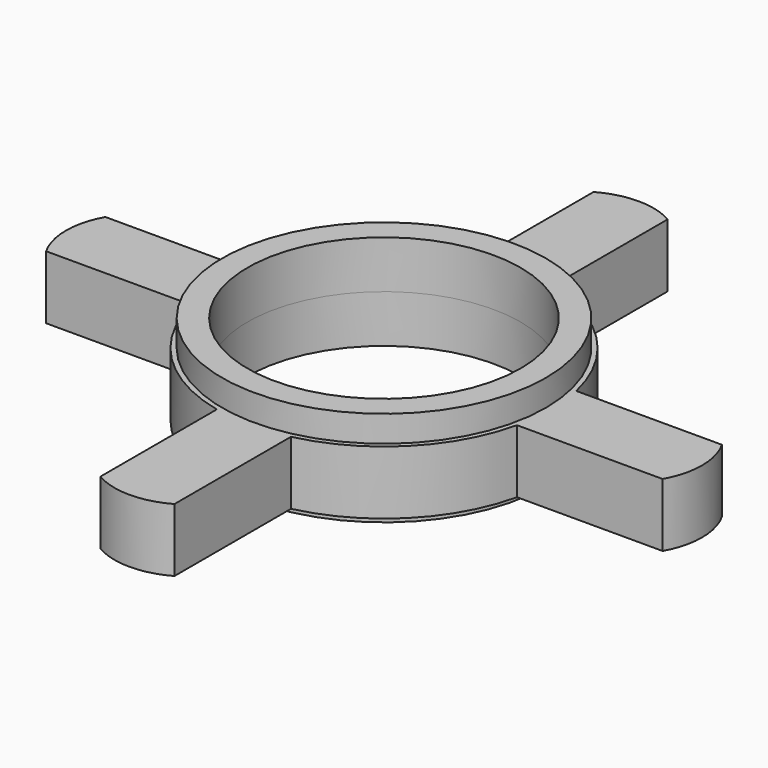
from build123d import *

# Parameters (mm, degrees)
F0_R     = 166
F0_R_2   = 140
F1_DEPTH = 49
F2_DEPTH = 49
F3_DEPTH = 22
F4_DEPTH = 43


with BuildPart() as f1:
    # F0 (on Top) → F1 (new body)
    with BuildSketch(Plane.XY):
        Circle(F0_R)
        Circle(F0_R_2, mode=Mode.SUBTRACT)
    extrude(amount=F1_DEPTH)

    # F0 (on Top) → F2 (join)
    with BuildSketch(Plane.XY):
        Circle(F0_R)
        Circle(F0_R_2, mode=Mode.SUBTRACT)
    extrude(amount=-F2_DEPTH)

    # F0 (on Top) → F3 (join)
    with BuildSketch(Plane.XY):
        with BuildLine():
            ThreePointArc((166.7243233605, -38), (169.9277188905, -19.1198941598), (171, 0))
            ThreePointArc((171, 0), (169.9277188905, 19.1198941598), (166.7243233605, 38))
            ThreePointArc((166.7243233605, 38), (120.9152595829, 120.9152595829), (38, 166.7243233605))
            ThreePointArc((38, 166.7243233605), (19.1198941598, 169.9277188905), (0, 171))
            ThreePointArc((0, 171), (-19.1198941598, 169.9277188905), (-38, 166.7243233605))
            ThreePointArc((-38, 166.7243233605), (-120.9152595829, 120.9152595829), (-166.7243233605, 38))
            ThreePointArc((-166.7243233605, 38), (-169.9277188905, 19.1198941598), (-171, 0))
            ThreePointArc((-171, 0), (-169.9277188905, -19.1198941598), (-166.7243233605, -38))
            ThreePointArc((-166.7243233605, -38), (-120.9152595829, -120.9152595829), (-38, -166.7243233605))
            ThreePointArc((-38, -166.7243233605), (-19.1198941598, -169.9277188905), (0, -171))
            ThreePointArc((0, -171), (19.1198941598, -169.9277188905), (38, -166.7243233605))
            ThreePointArc((38, -166.7243233605), (120.9152595829, -120.9152595829), (166.7243233605, -38))
        make_face()
        Circle(F0_R, mode=Mode.SUBTRACT)
        with BuildLine():
            Line((-316, -38), (-166.7243233605, -38))
            ThreePointArc((-166.7243233605, -38), (-169.9277188905, -19.1198941598), (-171, 0))
            Line((-171, 0), (-326, 0))
            ThreePointArc((-326, 0), (-323.4581542767, -19.6468827044), (-316, -38))
        make_face()
        with BuildLine():
            ThreePointArc((-171, 0), (-169.9277188905, 19.1198941598), (-166.7243233605, 38))
            Line((-166.7243233605, 38), (-316, 38))
            ThreePointArc((-316, 38), (-323.4581542767, 19.6468827044), (-326, 0))
            Line((-326, 0), (-171, 0))
        make_face()
        with BuildLine():
            ThreePointArc((-38, 166.7243233605), (-19.1198941598, 169.9277188905), (0, 171))
            Line((0, 171), (0, 326))
            ThreePointArc((0, 326), (-19.6468827044, 323.4581542767), (-38, 316))
            Line((-38, 316), (-38, 166.7243233605))
        make_face()
        with BuildLine():
            ThreePointArc((0, 171), (19.1198941598, 169.9277188905), (38, 166.7243233605))
            Line((38, 166.7243233605), (38, 316))
            ThreePointArc((38, 316), (19.6468827044, 323.4581542767), (0, 326))
            Line((0, 326), (0, 171))
        make_face()
        with BuildLine():
            ThreePointArc((166.7243233605, 38), (169.9277188905, 19.1198941598), (171, 0))
            Line((171, 0), (326, 0))
            ThreePointArc((326, 0), (323.4581542767, 19.6468827044), (316, 38))
            Line((316, 38), (166.7243233605, 38))
        make_face()
        with BuildLine():
            Line((326, 0), (171, 0))
            ThreePointArc((171, 0), (169.9277188905, -19.1198941598), (166.7243233605, -38))
            Line((166.7243233605, -38), (316, -38))
            ThreePointArc((316, -38), (323.4581542767, -19.6468827044), (326, 0))
        make_face()
        with BuildLine():
            Line((38, -316), (38, -166.7243233605))
            ThreePointArc((38, -166.7243233605), (19.1198941598, -169.9277188905), (0, -171))
            Line((0, -171), (0, -326))
            ThreePointArc((0, -326), (19.6468827044, -323.4581542767), (38, -316))
        make_face()
        with BuildLine():
            Line((0, -326), (0, -171))
            ThreePointArc((0, -171), (-19.1198941598, -169.9277188905), (-38, -166.7243233605))
            Line((-38, -166.7243233605), (-38, -316))
            ThreePointArc((-38, -316), (-19.6468827044, -323.4581542767), (0, -326))
        make_face()
    extrude(amount=F3_DEPTH)

    # F0 (on Top) → F4 (join)
    with BuildSketch(Plane.XY):
        with BuildLine():
            ThreePointArc((-171, 0), (-169.9277188905, 19.1198941598), (-166.7243233605, 38))
            Line((-166.7243233605, 38), (-316, 38))
            ThreePointArc((-316, 38), (-323.4581542767, 19.6468827044), (-326, 0))
            Line((-326, 0), (-171, 0))
        make_face()
        with BuildLine():
            Line((-316, -38), (-166.7243233605, -38))
            ThreePointArc((-166.7243233605, -38), (-169.9277188905, -19.1198941598), (-171, 0))
            Line((-171, 0), (-326, 0))
            ThreePointArc((-326, 0), (-323.4581542767, -19.6468827044), (-316, -38))
        make_face()
        with BuildLine():
            ThreePointArc((166.7243233605, -38), (169.9277188905, -19.1198941598), (171, 0))
            ThreePointArc((171, 0), (169.9277188905, 19.1198941598), (166.7243233605, 38))
            ThreePointArc((166.7243233605, 38), (120.9152595829, 120.9152595829), (38, 166.7243233605))
            ThreePointArc((38, 166.7243233605), (19.1198941598, 169.9277188905), (0, 171))
            ThreePointArc((0, 171), (-19.1198941598, 169.9277188905), (-38, 166.7243233605))
            ThreePointArc((-38, 166.7243233605), (-120.9152595829, 120.9152595829), (-166.7243233605, 38))
            ThreePointArc((-166.7243233605, 38), (-169.9277188905, 19.1198941598), (-171, 0))
            ThreePointArc((-171, 0), (-169.9277188905, -19.1198941598), (-166.7243233605, -38))
            ThreePointArc((-166.7243233605, -38), (-120.9152595829, -120.9152595829), (-38, -166.7243233605))
            ThreePointArc((-38, -166.7243233605), (-19.1198941598, -169.9277188905), (0, -171))
            ThreePointArc((0, -171), (19.1198941598, -169.9277188905), (38, -166.7243233605))
            ThreePointArc((38, -166.7243233605), (120.9152595829, -120.9152595829), (166.7243233605, -38))
        make_face()
        Circle(F0_R, mode=Mode.SUBTRACT)
        with BuildLine():
            Line((0, -326), (0, -171))
            ThreePointArc((0, -171), (-19.1198941598, -169.9277188905), (-38, -166.7243233605))
            Line((-38, -166.7243233605), (-38, -316))
            ThreePointArc((-38, -316), (-19.6468827044, -323.4581542767), (0, -326))
        make_face()
        with BuildLine():
            Line((38, -316), (38, -166.7243233605))
            ThreePointArc((38, -166.7243233605), (19.1198941598, -169.9277188905), (0, -171))
            Line((0, -171), (0, -326))
            ThreePointArc((0, -326), (19.6468827044, -323.4581542767), (38, -316))
        make_face()
        with BuildLine():
            Line((326, 0), (171, 0))
            ThreePointArc((171, 0), (169.9277188905, -19.1198941598), (166.7243233605, -38))
            Line((166.7243233605, -38), (316, -38))
            ThreePointArc((316, -38), (323.4581542767, -19.6468827044), (326, 0))
        make_face()
        with BuildLine():
            ThreePointArc((166.7243233605, 38), (169.9277188905, 19.1198941598), (171, 0))
            Line((171, 0), (326, 0))
            ThreePointArc((326, 0), (323.4581542767, 19.6468827044), (316, 38))
            Line((316, 38), (166.7243233605, 38))
        make_face()
        with BuildLine():
            ThreePointArc((0, 171), (19.1198941598, 169.9277188905), (38, 166.7243233605))
            Line((38, 166.7243233605), (38, 316))
            ThreePointArc((38, 316), (19.6468827044, 323.4581542767), (0, 326))
            Line((0, 326), (0, 171))
        make_face()
        with BuildLine():
            ThreePointArc((-38, 166.7243233605), (-19.1198941598, 169.9277188905), (0, 171))
            Line((0, 171), (0, 326))
            ThreePointArc((0, 326), (-19.6468827044, 323.4581542767), (-38, 316))
            Line((-38, 316), (-38, 166.7243233605))
        make_face()
    extrude(amount=-F4_DEPTH)


solid = f1.part
